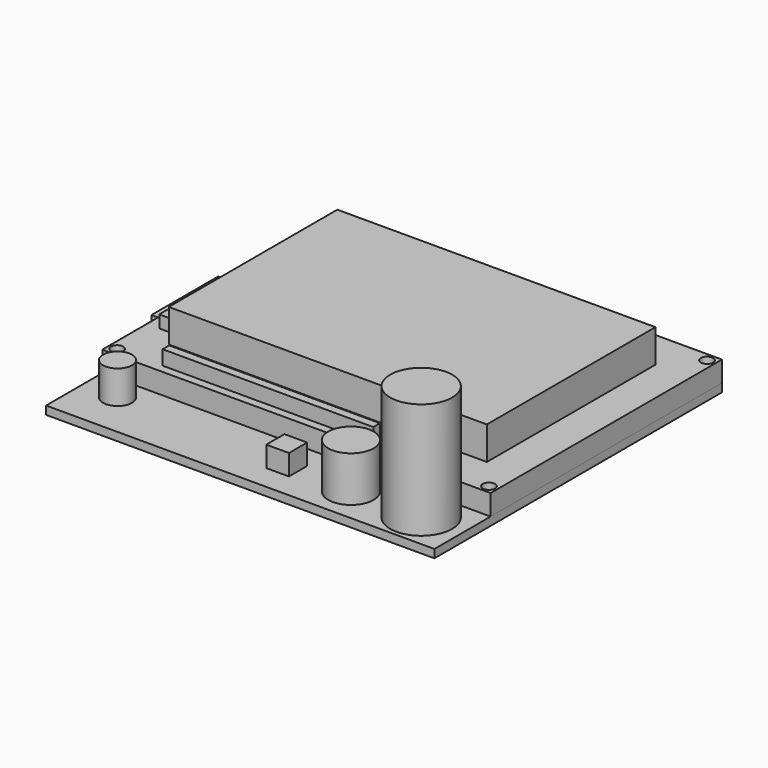
from build123d import *

# Parameters (mm, degrees)
F0_W        = 94
F0_H        = 87
F1_DEPTH    = 2
F2_W        = 94
F2_H        = 70
F3_DEPTH    = 5
F4_W        = 77
F4_H        = 51
F5_DEPTH    = 8
F6_W        = 5.5
F6_H        = 43
F7_DEPTH    = 3
F8_R        = 7.5
F9_DEPTH    = 28
F10_R       = 5.5
F11_DEPTH   = 11
F12_W       = 5.5
F12_H       = 5.5
F13_DEPTH   = 5
F14_R       = 3.5
F15_DEPTH   = 8
F17_D       = 3
F17_DEPTH   = 20
F17_2_D     = 3
F17_2_DEPTH = 20
F18_D       = 3
F18_2_D     = 3
F19_W       = 51
F19_H       = 2
F20_DEPTH   = 3.5
F21_W       = 26
F21_H       = 22
F22_DEPTH   = 3
F23_W       = 20
F23_H       = 9
F24_DEPTH   = 11
F25_W       = 20.191115
F25_H       = 2.29498
F26_DEPTH   = 10


with BuildPart() as f1:
    # F0 (on Top) → F1 (new body)
    with BuildSketch(Plane.XY):
        Rectangle(F0_W, F0_H)
    extrude(amount=F1_DEPTH)

    # F17
    with Locations(Plane.XY.offset(7)):
        with Locations((-45, 41.5)):
            Hole(F17_D / 2, depth=F17_DEPTH)

    # F18 (through all)
    with Locations(Plane.XY.offset(7)):
        with Locations((45, 41.5), (45, -24.5), (-45, -24.5)):
            Hole(F18_D / 2)

    # F21 (on face) → F22 (join)
    with BuildSketch(Plane(origin=(0, 0, 0), x_dir=(1, 0, 0), z_dir=(0, 0, -1))):
        with Locations((-34, -11)):
            Rectangle(F21_W, F21_H)
    extrude(amount=F22_DEPTH)

    # F23 (on face) → F24 (join)
    with BuildSketch(Plane(origin=(0, 0, 0), x_dir=(1, 0, 0), z_dir=(0, 0, -1))):
        with Locations((14, -33)):
            Rectangle(F23_W, F23_H)
        with Locations((-16, -33)):
            Rectangle(F23_W, F23_H)
    extrude(amount=F24_DEPTH)

    # F25 (on face) → F26 (join)
    with BuildSketch(Plane(origin=(-47, 0, 0), x_dir=(0, -1, 0), z_dir=(-1, 0, 0))):
        with Locations((-10.961359, -1.14749)):
            Rectangle(F25_W, F25_H)
        with Locations((-10.961359, -1.14749)):
            Rectangle(F25_W, F25_H)
    extrude(amount=F26_DEPTH)


with BuildPart() as f3:
    # F2 (on face) → F3 (new body)
    with BuildSketch(Plane.XY.offset(2)):
        with Locations((0, 8.5)):
            Rectangle(F2_W, F2_H)
    extrude(amount=F3_DEPTH)

    # F17#2
    with Locations(Plane.XY.offset(7)):
        with Locations((-45, 41.5)):
            Hole(F17_2_D / 2, depth=F17_2_DEPTH)

    # F18#2 (through all)
    with Locations(Plane.XY.offset(7)):
        with Locations((45, 41.5), (45, -24.5), (-45, -24.5)):
            Hole(F18_2_D / 2)


with BuildPart() as f5:
    # F4 (on face) → F5 (new body)
    with BuildSketch(Plane.XY.offset(7)):
        with Locations((0, 8.5)):
            Rectangle(F4_W, F4_H)
    extrude(amount=F5_DEPTH)


with BuildPart() as f7:
    # F6 (on face) → F7 (new body)
    with BuildSketch(Plane.XY.offset(7)):
        with Locations((-41.25, 8.5)):
            Rectangle(F6_W, F6_H)
    extrude(amount=F7_DEPTH)


with BuildPart() as f9:
    # F8 (on face) → F9 (new body)
    with BuildSketch(Plane.XY.offset(2)):
        with Locations((37, -35)):
            Circle(F8_R)
    extrude(amount=F9_DEPTH)


with BuildPart() as f11:
    # F10 (on face) → F11 (new body)
    with BuildSketch(Plane.XY.offset(2)):
        with Locations((20, -35)):
            Circle(F10_R)
    extrude(amount=F11_DEPTH)


with BuildPart() as f13:
    # F12 (on face) → F13 (new body)
    with BuildSketch(Plane.XY.offset(2)):
        with Locations((4.25, -34.75)):
            Rectangle(F12_W, F12_H)
    extrude(amount=F13_DEPTH)


with BuildPart() as f15:
    # F14 (on face) → F15 (new body)
    with BuildSketch(Plane.XY.offset(2)):
        with Locations((-38.5, -32.5)):
            Circle(F14_R)
    extrude(amount=F15_DEPTH)


with BuildPart() as f20:
    # F19 (on face) → F20 (new body)
    with BuildSketch(Plane.XY.offset(7)):
        with Locations((-8.5, -23.5)):
            Rectangle(F19_W, F19_H)
    extrude(amount=F20_DEPTH)


solid = Compound([f1.part, f3.part, f5.part, f7.part, f9.part, f11.part, f13.part, f15.part, f20.part])
